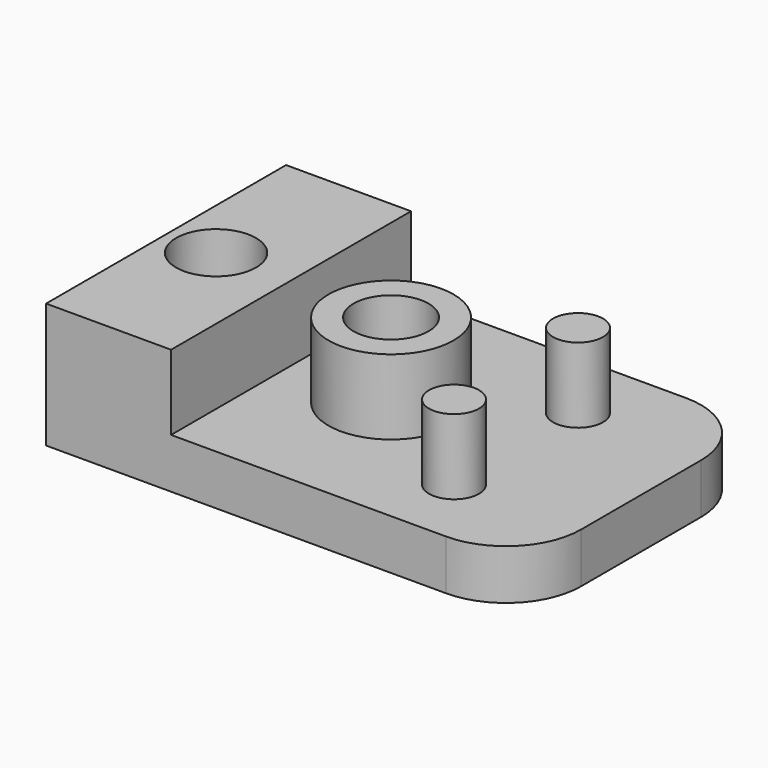
from build123d import *

# Parameters (mm, degrees)
SKETCH_W        = 19
SKETCH_H        = 12
SKETCH_R        = 1.6
SKETCH_R_2      = 1.5
PAD_DEPTH       = 5
SKETCH001_W     = 14
SKETCH001_H     = 12
SKETCH001_R     = 2.5
SKETCH001_R_2   = 1
POCKET_DEPTH    = 3.001
POCKET001_DEPTH = 2.001
FILLET_R        = 3


with BuildPart() as part:
    # Sketch → Pad (new body)
    with BuildSketch(Plane.XY):
        with Locations((9.5, 6)):
            Rectangle(SKETCH_W, SKETCH_H)
        with Locations((2, 6)):
            Circle(SKETCH_R, mode=Mode.SUBTRACT)
        with Locations((9, 6)):
            Circle(SKETCH_R_2, mode=Mode.SUBTRACT)
    extrude(amount=PAD_DEPTH)

    # Sketch001 (on DatumPlane) → Pocket (cut, through all)
    with BuildSketch(Plane.XY.offset(2)):
        with Locations((12, 6)):
            Rectangle(SKETCH001_W, SKETCH001_H)
        with Locations((9, 6)):
            Circle(SKETCH001_R, mode=Mode.SUBTRACT)
        with Locations((14, 9.1)):
            Circle(SKETCH001_R_2, mode=Mode.SUBTRACT)
        with Locations((14, 2.9)):
            Circle(SKETCH001_R_2, mode=Mode.SUBTRACT)
    extrude(amount=POCKET_DEPTH, mode=Mode.SUBTRACT)

    # Sketch002 (on DatumPlane) → Pocket001 (cut, through all)
    with BuildSketch(Plane.XY.offset(2)):
        Polygon((4.9, 4.325684), (4.9, 7.674316), (2, 9.348632), (-0.9, 7.674316), (-0.9, 4.325684), (2, 2.651368), align=None)
    extrude(amount=-POCKET001_DEPTH, mode=Mode.SUBTRACT)

    # Fillet
    fillet_edges = [part.edges().sort_by_distance(p)[0] for p in [
        (19, 0, 1),
        (19, 12, 1),
    ]]
    fillet(fillet_edges, radius=FILLET_R)


solid = part.part
